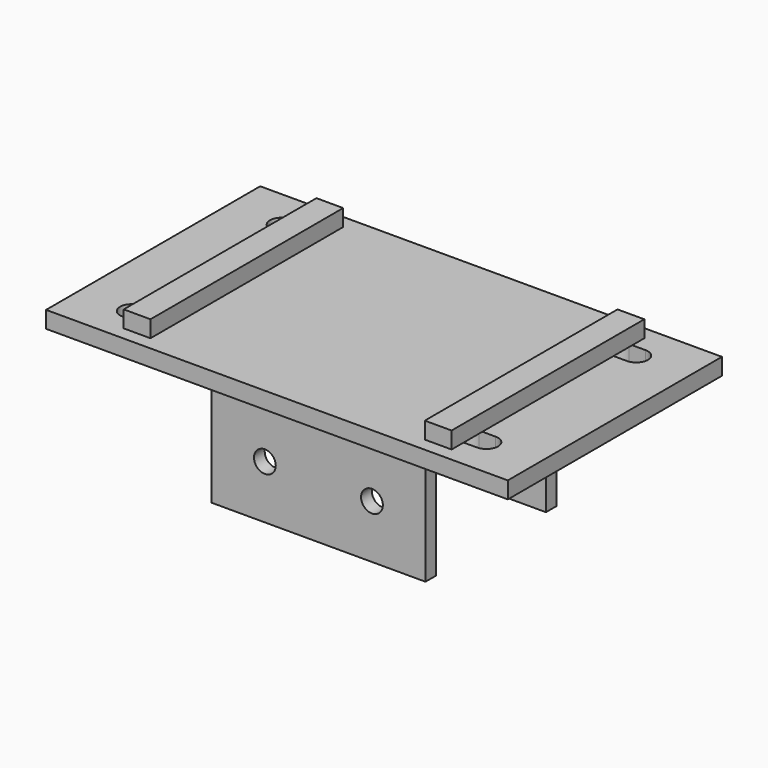
from build123d import *

# Parameters (mm, degrees)
F0_W      = 438.15
F0_H      = 254
F1_DEPTH  = 7.9375
F2_W      = 203.2
F2_H      = 127
F3_DEPTH  = 6.35
F7_W      = 25.4
F7_H      = 228.6
F8_DEPTH  = 15.875
F10_DEPTH = 142.876
F11_R     = 10.31875
F12_DEPTH = 204.7885


with BuildPart() as f1:
    # F0 (on Top) → F1 (new body, symmetric)
    with BuildSketch(Plane.XY):
        Rectangle(F0_W, F0_H)
    extrude(amount=F1_DEPTH, both=True)



with BuildPart() as f3:
    # F2 (on Front) → F3 (new body, symmetric)
    with BuildSketch(Plane.XZ):
        with Locations((0, -71.4375)):
            Rectangle(F2_W, F2_H)
    extrude(amount=F3_DEPTH, both=True)


with BuildPart() as f3_1:
    # F4: moved
    add(f3.part.moved(Location((0, -71.4375, 0))))


with BuildPart() as f1_1:
    add(f1.part)

    add(f3_1.part)  # F6 merges F3
    # F6: F3 across plane
    add(f3_1.part.mirror(Plane.XZ))

    # F9 (on face) → F10 (cut, through all)
    with BuildSketch(Plane.XY.offset(7.9375)):
        with BuildLine():
            Line((-152.4, -77.7875), (-168.275, -77.7875))
            ThreePointArc((-168.275, -77.7875), (-179.3875, -88.9), (-168.275, -100.0125))
            Line((-168.275, -100.0125), (-152.4, -100.0125))
            ThreePointArc((-152.4, -100.0125), (-141.2875, -88.9), (-152.4, -77.7875))
        make_face()
        with BuildLine():
            ThreePointArc((-168.275, 100.0125), (-179.3875, 88.9), (-168.275, 77.7875))
            Line((-168.275, 77.7875), (-152.4, 77.7875))
            ThreePointArc((-152.4, 77.7875), (-141.2875, 88.9), (-152.4, 100.0125))
            Line((-152.4, 100.0125), (-168.275, 100.0125))
        make_face()
        with BuildLine():
            Line((152.4, 77.7875), (168.275, 77.7875))
            ThreePointArc((168.275, 77.7875), (179.3875, 88.9), (168.275, 100.0125))
            Line((168.275, 100.0125), (152.4, 100.0125))
            ThreePointArc((152.4, 100.0125), (141.2875, 88.9), (152.4, 77.7875))
        make_face()
        with BuildLine():
            ThreePointArc((168.275, -100.0125), (179.3875, -88.9), (168.275, -77.7875))
            Line((168.275, -77.7875), (152.4, -77.7875))
            ThreePointArc((152.4, -77.7875), (141.2875, -88.9), (152.4, -100.0125))
            Line((152.4, -100.0125), (168.275, -100.0125))
        make_face()
    extrude(amount=-F10_DEPTH, mode=Mode.SUBTRACT)

    # F11 (on face) → F12 (cut, through all)
    with BuildSketch(Plane.XZ.offset(77.7875)):
        with Locations((-50.8, -84.1375)):
            Circle(F11_R)
        with Locations((50.8, -84.1375)):
            Circle(F11_R)
    extrude(amount=-F12_DEPTH, mode=Mode.SUBTRACT)


with BuildPart() as f8:
    # F7 (on face) → F8 (new body)
    with BuildSketch(Plane.XY.offset(7.9375)):
        with Locations((-142.875, 0)):
            Rectangle(F7_W, F7_H)
    extrude(amount=F8_DEPTH)


with BuildPart() as f8b:
    # F7 (on face) → F8, piece 2 (new body)
    with BuildSketch(Plane.XY.offset(7.9375)):
        with Locations((142.875, 0)):
            Rectangle(F7_W, F7_H)
    extrude(amount=F8_DEPTH)


solid = Compound([f1_1.part, f8.part, f8b.part])
